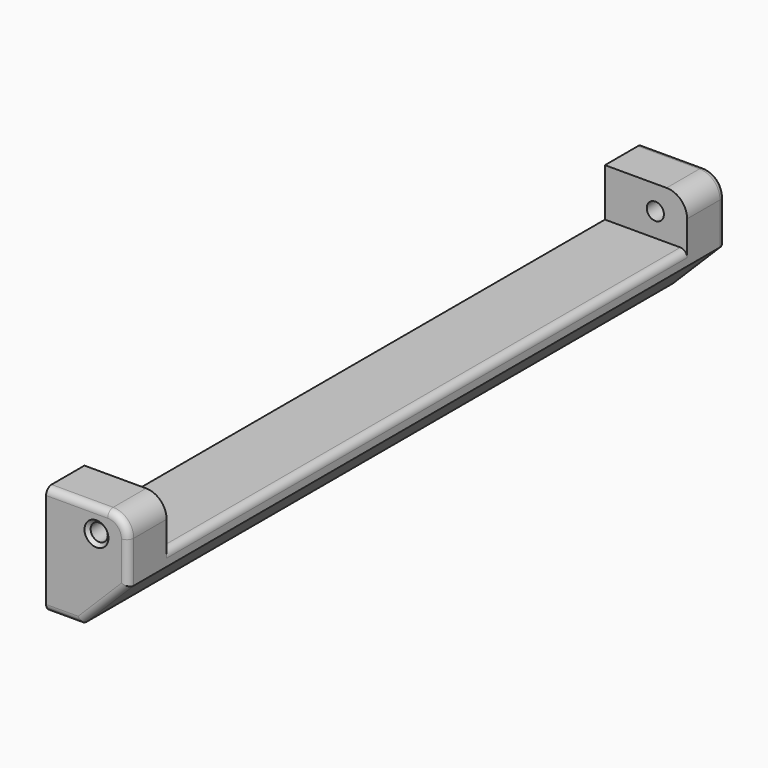
from build123d import *

# Parameters (mm, degrees)
PAD013_DEPTH            = 12
CHAMFER013_SIZE         = 6.9
FILLET028_R             = 1
FILLET027_R             = 3
FILLET029_R             = 1
SKETCH052_R             = 1.25
POCKET020_DEPTH         = 109.001
CHAMFER014_SIZE         = 0.5
FILLET031_R             = 1
BODY012_PLACEMENT_ANGLE = 180


with BuildPart() as part:
    # Sketch051 → Pad013 (new body)
    with BuildSketch(Plane.YZ.offset(37)):
        Polygon((-48, 6), (-41, 6), (-41, 13), (54, 13), (54, 6), (61, 6), (61, 22), (-48, 22), align=None)
    extrude(amount=PAD013_DEPTH)

    # Chamfer013
    chamfer013_edges = [part.edges().sort_by_distance(p)[0] for p in [
        (49, 6.5, 22),
    ]]
    chamfer(chamfer013_edges, length=CHAMFER013_SIZE)

    # Fillet028
    fillet028_edges = [part.edges().sort_by_distance(p)[0] for p in [
        (49, 6.5, 13),
    ]]
    fillet(fillet028_edges, radius=FILLET028_R)

    # Fillet027
    fillet027_edges = [part.edges().sort_by_distance(p)[0] for p in [
        (49, 57.5, 6),
        (49, -44.5, 6),
    ]]
    fillet(fillet027_edges, radius=FILLET027_R)

    # Fillet029
    fillet029_edges = [part.edges().sort_by_distance(p)[0] for p in [
        (41.5, 61, 6),
        (48.12132, 61, 6.87868),
        (49, 61, 12.05),
        (45.55, 61, 18.55),
        (39.55, 61, 22),
    ]]
    fillet(fillet029_edges, radius=FILLET029_R)

    # Sketch052 (on Face12 of Fillet029) → Pocket020 (cut, through all)
    with BuildSketch(Plane.ZX.offset(61)):
        with Locations((9.54001, 44.356239)):
            Circle(SKETCH052_R)
    extrude(amount=-POCKET020_DEPTH, mode=Mode.SUBTRACT)

    # Chamfer014
    chamfer014_edges = [part.edges().sort_by_distance(p)[0] for p in [
        (44.356239, 61, 8.29001),
        (44.356239, -48, 8.29001),
    ]]
    chamfer(chamfer014_edges, length=CHAMFER014_SIZE)

    # Fillet031
    fillet031_edges = [part.edges().sort_by_distance(p)[0] for p in [
        (41.5, -48, 6),
        (48.12132, -48, 6.87868),
        (49, -48, 12.05),
        (45.55, -48, 18.55),
        (39.55, -48, 22),
    ]]
    fillet(fillet031_edges, radius=FILLET031_R)


with BuildPart() as part_1:
    # Body012 placement: moved
    add(part.part.moved(Location((7.57, 12.98, 9.09))).rotate(Axis((7.57, 12.98, 9.09), (1, 0, 0)), BODY012_PLACEMENT_ANGLE))


solid = part_1.part
